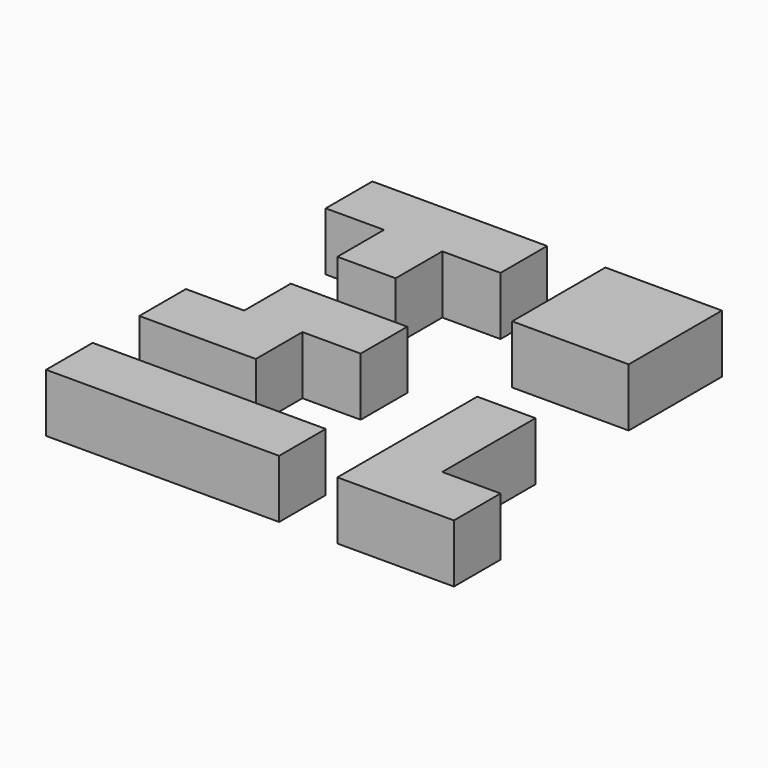
from build123d import *

# Parameters (mm, degrees)
BOX_W        = 40
BOX_H        = 10
BOX_DEPTH    = 10
BOX001_W     = 20
BOX001_H     = 10
BOX001_DEPTH = 10
BOX002_W     = 20
BOX002_H     = 10
BOX002_DEPTH = 10
BOX003_W     = 10
BOX003_H     = 10
BOX003_DEPTH = 10
BOX004_W     = 30
BOX004_H     = 10
BOX004_DEPTH = 10
BOX005_W     = 20
BOX005_H     = 20
BOX005_DEPTH = 10
BOX006_W     = 20
BOX006_H     = 10
BOX006_DEPTH = 10
BOX007_W     = 10
BOX007_H     = 30
BOX007_DEPTH = 10


with BuildPart() as cubo:
    # Box → Box (new body)
    with BuildSketch(Plane.XY):
        with Locations((20, 5)):
            Rectangle(BOX_W, BOX_H)
    extrude(amount=BOX_DEPTH)


with BuildPart() as cubo001:
    # Box001 → Box001 (new body)
    with BuildSketch(Plane(origin=(0, 20, 0), x_dir=(1, 0, 0), z_dir=(0, 0, 1))):
        with Locations((10, 5)):
            Rectangle(BOX001_W, BOX001_H)
    extrude(amount=BOX001_DEPTH)


with BuildPart() as fusion:
    # Box002 → Box002 (new body)
    with BuildSketch(Plane(origin=(10, 30, 0), x_dir=(1, 0, 0), z_dir=(0, 0, 1))):
        with Locations((10, 5)):
            Rectangle(BOX002_W, BOX002_H)
    extrude(amount=BOX002_DEPTH)

    # Fusion: union Cubo001
    add(cubo001.part)


with BuildPart() as cubo003:
    # Box003 → Box003 (new body)
    with BuildSketch(Plane(origin=(10, 50, 0), x_dir=(1, 0, 0), z_dir=(0, 0, 1))):
        with Locations((5, 5)):
            Rectangle(BOX003_W, BOX003_H)
    extrude(amount=BOX003_DEPTH)


with BuildPart() as fusion001:
    # Box004 → Box004 (new body)
    with BuildSketch(Plane(origin=(0, 60, 0), x_dir=(1, 0, 0), z_dir=(0, 0, 1))):
        with Locations((15, 5)):
            Rectangle(BOX004_W, BOX004_H)
    extrude(amount=BOX004_DEPTH)

    # Fusion001: union Cubo003
    add(cubo003.part)


with BuildPart() as cubo005:
    # Box005 → Box005 (new body)
    with BuildSketch(Plane(origin=(40, 50, 0), x_dir=(1, 0, 0), z_dir=(0, 0, 1))):
        with Locations((10, 10)):
            Rectangle(BOX005_W, BOX005_H)
    extrude(amount=BOX005_DEPTH)


with BuildPart() as cubo006:
    # Box006 → Box006 (new body)
    with BuildSketch(Plane(origin=(50, 0, 0), x_dir=(1, 0, 0), z_dir=(0, 0, 1))):
        with Locations((10, 5)):
            Rectangle(BOX006_W, BOX006_H)
    extrude(amount=BOX006_DEPTH)


with BuildPart() as fusion002:
    # Box007 → Box007 (new body)
    with BuildSketch(Plane(origin=(50, 0, 0), x_dir=(1, 0, 0), z_dir=(0, 0, 1))):
        with Locations((5, 15)):
            Rectangle(BOX007_W, BOX007_H)
    extrude(amount=BOX007_DEPTH)

    # Fusion002: union Cubo006
    add(cubo006.part)


solid = Compound([cubo.part, fusion.part, fusion001.part, cubo005.part, fusion002.part])
